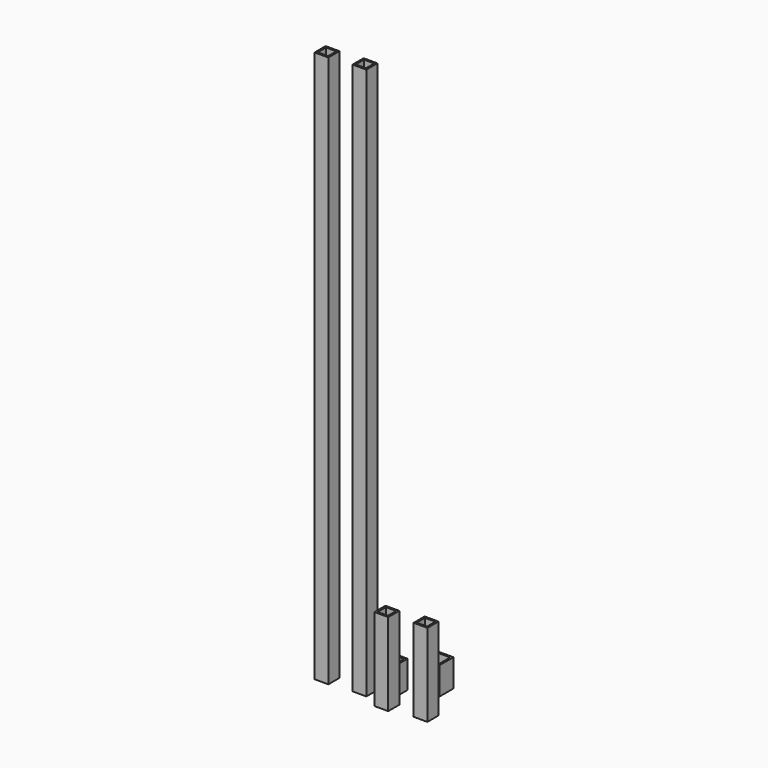
from build123d import *

# Parameters (mm, degrees)
F1_W      = 31.75
F1_H      = 32.292241
F1_W_2    = 25.4
F1_H_2    = 25.4
F0_W      = 31.75
F0_H      = 32.292241
F0_W_2    = 25.4
F0_H_2    = 25.4
F3_W      = 31.75
F3_H      = 32.292241
F3_W_2    = 25.4
F3_H_2    = 25.4
F2_W      = 31.75
F2_H      = 32.292241
F2_W_2    = 25.4
F2_H_2    = 25.4
F4_DEPTH  = 50.8
F8_W      = 25.4
F8_H      = 25.4
F8_W_2    = 19.05
F8_H_2    = 19.05
F7_W      = 25.4
F7_H      = 25.4
F7_W_2    = 19.05
F7_H_2    = 19.05
F9_DEPTH  = 152.4
F6_W      = 25.4
F6_H      = 25.4
F6_W_2    = 19.05
F6_H_2    = 19.05
F5_W      = 25.4
F5_H      = 25.4
F5_W_2    = 19.05
F5_H_2    = 19.05
F10_DEPTH = 1016


with BuildPart() as f4:
    # F1 (on Top) + F0 (on Top) + F3 (on Top) + F2 (on Top) → F4 (new body)
    with BuildSketch(Plane.XY):
        with Locations((-147.955775, 39.958753)):
            Rectangle(F1_W, F1_H)
        with Locations((-147.955775, 39.958753)):
            Rectangle(F1_W_2, F1_H_2, mode=Mode.SUBTRACT)
    with BuildSketch(Plane.XY):
        with Locations((-104.459423, 15.823613)):
            Rectangle(F0_W, F0_H)
        with Locations((-104.459423, 15.823613)):
            Rectangle(F0_W_2, F0_H_2, mode=Mode.SUBTRACT)
    with BuildSketch(Plane.XY):
        with Locations((-66.558324, -12.209618)):
            Rectangle(F3_W, F3_H)
        with Locations((-66.558324, -12.209618)):
            Rectangle(F3_W_2, F3_H_2, mode=Mode.SUBTRACT)
    with BuildSketch(Plane.XY):
        with Locations((-17.904842, 32.558982)):
            Rectangle(F2_W, F2_H)
        with Locations((-17.904842, 32.558981)):
            Rectangle(F2_W_2, F2_H_2, mode=Mode.SUBTRACT)
    extrude(amount=F4_DEPTH)


with BuildPart() as f9:
    # F8 (on Top) + F7 (on Top) → F9 (new body)
    with BuildSketch(Plane.XY):
        with Locations((20.954452, -43.10365)):
            Rectangle(F8_W, F8_H)
        with Locations((20.954452, -43.10365)):
            Rectangle(F8_W_2, F8_H_2, mode=Mode.SUBTRACT)
    with BuildSketch(Plane.XY):
        with Locations((-43.887019, -52.168373)):
            Rectangle(F7_W, F7_H)
        with Locations((-43.887019, -52.168373)):
            Rectangle(F7_W_2, F7_H_2, mode=Mode.SUBTRACT)
    extrude(amount=F9_DEPTH)


with BuildPart() as f10:
    # F6 (on Top) + F5 (on Top) → F10 (new body)
    with BuildSketch(Plane.XY):
        with Locations((-97.082369, -36.073875)):
            Rectangle(F6_W, F6_H)
        with Locations((-97.082369, -36.073875)):
            Rectangle(F6_W_2, F6_H_2, mode=Mode.SUBTRACT)
    with BuildSketch(Plane.XY):
        with Locations((-163.310304, -40.698729)):
            Rectangle(F5_W, F5_H)
        with Locations((-163.310304, -40.698729)):
            Rectangle(F5_W_2, F5_H_2, mode=Mode.SUBTRACT)
    extrude(amount=F10_DEPTH)


solid = Compound([f4.part, f9.part, f10.part])
